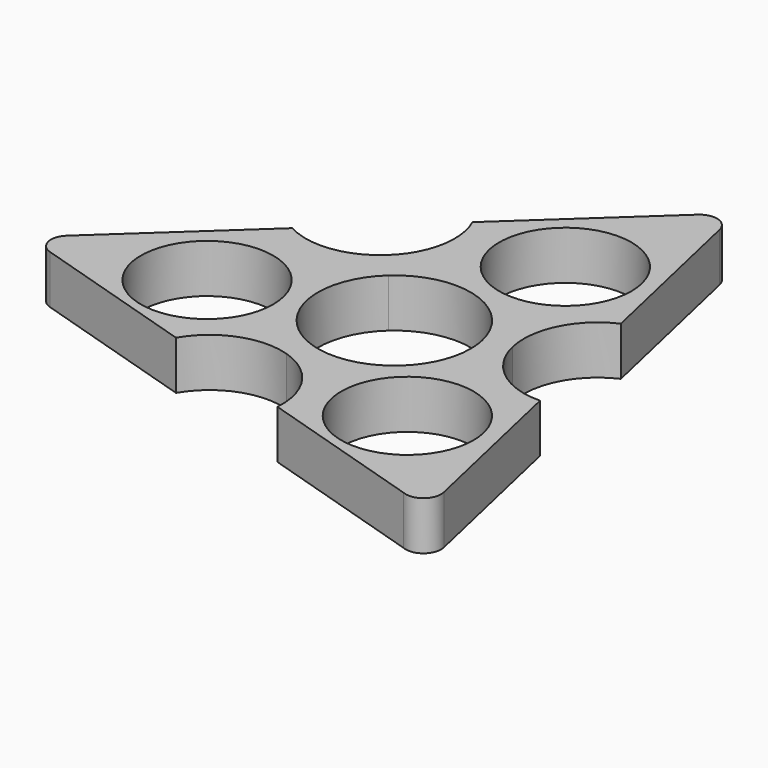
from build123d import *

# Parameters (mm, degrees)
F0_R     = 9.525
F1_DEPTH = 7


with BuildPart() as f1:
    # F0 (on Top) → F1 (new body)
    with BuildSketch(Plane.XY):
        with BuildLine():
            ThreePointArc((-7.356254, 8.178357), (3.329824, 10.483905), (10.727142, 2.434838))
            Line((10.727142, 2.434838), (14.408928, 3.270526))
            ThreePointArc((14.408928, 3.270526), (15.252655, 10.351743), (20.379099, 15.309069))
            Line((20.379099, 15.309069), (14.740562, 40.150721))
            ThreePointArc((14.740562, 40.150721), (13.015163, 42.014748), (10.538168, 41.452522))
            Line((10.538168, 41.452522), (-8.102103, 24.198528))
            ThreePointArc((-8.102103, 24.198528), (-7.387937, 17.616196), (-10.676531, 11.869695))
            Line((-10.676531, 11.869695), (-7.356254, 8.178357))
        make_face()
        with Locations((6.842669, 22.233071)):
            Circle(F0_R, mode=Mode.SUBTRACT)
        with BuildLine():
            Line((-4.402173, -13.902461), (-3.320622, -10.486824))
            ThreePointArc((-3.320622, -10.486824), (-10.751566, -2.324615), (-7.356254, 8.178357))
            Line((-7.356254, 8.178357), (-10.676531, 11.869695))
            ThreePointArc((-10.676531, 11.869695), (-16.61004, 9.162756), (-23.01432, 10.395333))
            Line((-23.01432, 10.395333), (-41.654591, -6.85866))
            ThreePointArc((-41.654591, -6.85866), (-42.406186, -9.284914), (-40.680787, -11.148941))
            Line((-40.680787, -11.148941), (-16.55213, -18.617483))
            ThreePointArc((-16.55213, -18.617483), (-11.304982, -14.126767), (-4.402173, -13.902461))
        make_face()
        with Locations((-22.614271, -5.452181)):
            Circle(F0_R, mode=Mode.SUBTRACT)
        with BuildLine():
            ThreePointArc((10.727142, 2.434838), (10.931573, 1.225039), (11, 0))
            ThreePointArc((11, 0), (6.498968, -8.874876), (-3.320622, -10.486824))
            Line((-3.320622, -10.486824), (-4.402173, -13.902461))
            ThreePointArc((-4.402173, -13.902461), (1.09613, -17.999523), (2.859245, -24.625885))
            Line((2.859245, -24.625885), (26.987902, -32.094427))
            ThreePointArc((26.987902, -32.094427), (29.624289, -31.725007), (30.482894, -29.205125))
            Line((30.482894, -29.205125), (24.991316, -5.010931))
            ThreePointArc((24.991316, -5.010931), (18.227056, -2.752546), (14.408928, 3.270526))
            Line((14.408928, 3.270526), (10.727142, 2.434838))
        make_face()
        with Locations((15.648209, -17.212353)):
            Circle(F0_R, mode=Mode.SUBTRACT)
    extrude(amount=F1_DEPTH)


solid = f1.part
